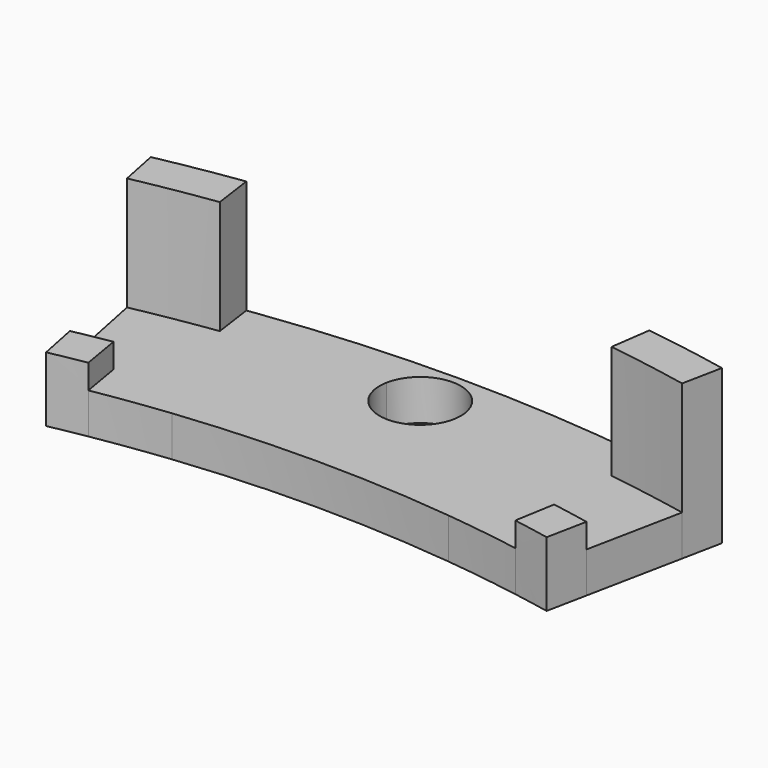
from build123d import *

# Parameters (mm, degrees)
F1_DEPTH = 1.25
F3_DEPTH = 4.75
F5_DEPTH = 2


with BuildPart() as f1:
    # F0 (on Top) → F1 (new body)
    with BuildSketch(Plane.XY):
        with BuildLine():
            ThreePointArc((5.9976509575, 42.832122093), (6.6456632834, 42.7363739632), (7.2921511628, 42.6308225515))
            Line((7.2921511628, 42.6308225515), (7.5029069767, 43.8629272495))
            ThreePointArc((7.5029069767, 43.8629272495), (6.7010150496, 43.9925720697), (5.8968902794, 44.1075581395))
            ThreePointArc((5.8968902794, 44.1075581395), (5.9741669577, 43.5561736795), (6, 43))
            ThreePointArc((6, 43), (5.9994127106, 42.9160528296), (5.9976509575, 42.832122093))
        make_face()
        with BuildLine():
            Line((-7.5029069767, 43.8629272495), (-7.2921511628, 42.6308225515))
            ThreePointArc((-7.2921511628, 42.6308225515), (-6.6456632834, 42.7363739632), (-5.9976509575, 42.832122093))
            ThreePointArc((-5.9976509575, 42.832122093), (-5.9813637313, 43.4725335051), (-5.8968902794, 44.1075581395))
            ThreePointArc((-5.8968902794, 44.1075581395), (-6.7010150496, 43.9925720697), (-7.5029069767, 43.8629272495))
        make_face()
        with BuildLine():
            ThreePointArc((1.2281761729, 43.2325581395), (3.6184570865, 43.0983673509), (5.9976509575, 42.832122093))
            ThreePointArc((5.9976509575, 42.832122093), (5.9994127106, 42.9160528296), (6, 43))
            ThreePointArc((6, 43), (5.9741669577, 43.5561736795), (5.8968902794, 44.1075581395))
            ThreePointArc((5.8968902794, 44.1075581395), (0, 44.5), (-5.8968902794, 44.1075581395))
            ThreePointArc((-5.8968902794, 44.1075581395), (-5.9813637313, 43.4725335051), (-5.9976509575, 42.832122093))
            ThreePointArc((-5.9976509575, 42.832122093), (-3.6184570865, 43.0983673509), (-1.2281761729, 43.2325581395))
            ThreePointArc((-1.2281761729, 43.2325581395), (0, 44.25), (1.2281761729, 43.2325581395))
        make_face()
        with BuildLine():
            ThreePointArc((5.1487358592, 39.9193313953), (5.9687994799, 39.804973719), (6.7863372093, 39.6737712763))
            Line((6.7863372093, 39.6737712763), (7.2921511628, 42.6308225515))
            ThreePointArc((7.2921511628, 42.6308225515), (6.6456632834, 42.7363739632), (5.9976509575, 42.832122093))
            ThreePointArc((5.9976509575, 42.832122093), (5.7603447969, 41.3211826125), (5.1487358592, 39.9193313953))
        make_face()
        with BuildLine():
            ThreePointArc((-5.1487358592, 39.9193313953), (0, 40.25), (5.1487358592, 39.9193313953))
            ThreePointArc((5.1487358592, 39.9193313953), (5.7603447969, 41.3211826125), (5.9976509575, 42.832122093))
            ThreePointArc((5.9976509575, 42.832122093), (3.6184570865, 43.0983673509), (1.2281761729, 43.2325581395))
            ThreePointArc((1.2281761729, 43.2325581395), (1.244532084, 43.1167899479), (1.25, 43))
            ThreePointArc((1.25, 43), (-0.1167899479, 41.755467916), (-1.2281761729, 43.2325581395))
            ThreePointArc((-1.2281761729, 43.2325581395), (-3.6184570865, 43.0983673509), (-5.9976509575, 42.832122093))
            ThreePointArc((-5.9976509575, 42.832122093), (-5.7603447969, 41.3211826125), (-5.1487358592, 39.9193313953))
        make_face()
        with BuildLine():
            Line((-7.2921511628, 42.6308225515), (-6.7863372093, 39.6737712763))
            ThreePointArc((-6.7863372093, 39.6737712763), (-5.9687994799, 39.804973719), (-5.1487358592, 39.9193313953))
            ThreePointArc((-5.1487358592, 39.9193313953), (-5.7603447969, 41.3211826125), (-5.9976509575, 42.832122093))
            ThreePointArc((-5.9976509575, 42.832122093), (-6.6456632834, 42.7363739632), (-7.2921511628, 42.6308225515))
        make_face()
        with BuildLine():
            Line((-6.7863372093, 39.6737712763), (-6.5755813953, 38.4416665782))
            ThreePointArc((-6.5755813953, 38.4416665782), (-5.4165900946, 38.6220215906), (-4.2526993305, 38.7674418605))
            ThreePointArc((-4.2526993305, 38.7674418605), (-4.7358693269, 39.3160426552), (-5.1487358592, 39.9193313953))
            ThreePointArc((-5.1487358592, 39.9193313953), (-5.9687994799, 39.804973719), (-6.7863372093, 39.6737712763))
        make_face()
        with BuildLine():
            ThreePointArc((-4.2526993305, 38.7674418605), (0, 39), (4.2526993305, 38.7674418605))
            ThreePointArc((4.2526993305, 38.7674418605), (4.7358693269, 39.3160426552), (5.1487358592, 39.9193313953))
            ThreePointArc((5.1487358592, 39.9193313953), (0, 40.25), (-5.1487358592, 39.9193313953))
            ThreePointArc((-5.1487358592, 39.9193313953), (-4.7358693269, 39.3160426552), (-4.2526993305, 38.7674418605))
        make_face()
        with BuildLine():
            ThreePointArc((4.2526993305, 38.7674418605), (5.4165900946, 38.6220215906), (6.5755813953, 38.4416665782))
            Line((6.5755813953, 38.4416665782), (6.7863372093, 39.6737712763))
            ThreePointArc((6.7863372093, 39.6737712763), (5.9687994799, 39.804973719), (5.1487358592, 39.9193313953))
            ThreePointArc((5.1487358592, 39.9193313953), (4.7358693269, 39.3160426552), (4.2526993305, 38.7674418605))
        make_face()
        with BuildLine():
            ThreePointArc((6.7863372093, 39.6737712763), (7.3721720875, 39.5690987857), (7.9563953488, 39.4557761684))
            Line((7.9563953488, 39.4557761684), (8.5494186047, 42.3965793611))
            ThreePointArc((8.5494186046, 42.3965793611), (7.9216507524, 42.5183483846), (7.2921511628, 42.6308225515))
            Line((7.2921511628, 42.6308225515), (6.7863372093, 39.6737712763))
        make_face()
        with BuildLine():
            Line((-8.5494186047, 42.3965793611), (-7.9563953488, 39.4557761684))
            ThreePointArc((-7.9563953488, 39.4557761684), (-7.3721720874, 39.5690987857), (-6.7863372093, 39.6737712763))
            Line((-6.7863372093, 39.6737712763), (-7.2921511628, 42.6308225515))
            ThreePointArc((-7.2921511628, 42.6308225515), (-7.9216507524, 42.5183483846), (-8.5494186046, 42.3965793611))
        make_face()
    extrude(amount=F1_DEPTH)

    # F2 (on Top) → F3 (join)
    with BuildSketch(Plane.XY):
        with BuildLine():
            ThreePointArc((6.0348837209, 42.8268920011), (7.2953245865, 42.6302796047), (8.5494186046, 42.3965793611))
            Line((8.5494186047, 42.3965793611), (8.7965116279, 43.6219140247))
            ThreePointArc((8.7965116279, 43.6219140247), (7.5061721179, 43.8623686106), (6.2093023256, 44.0646634462))
            Line((6.2093023256, 44.0646634462), (6.0348837209, 42.8268920011))
        make_face()
        with BuildLine():
            Line((-8.7965116279, 43.6219140247), (-8.5494186047, 42.3965793611))
            ThreePointArc((-8.5494186046, 42.3965793611), (-7.2953245865, 42.6302796047), (-6.0348837209, 42.8268920011))
            Line((-6.0348837209, 42.8268920011), (-6.2093023256, 44.0646634462))
            ThreePointArc((-6.2093023256, 44.0646634462), (-7.5061721179, 43.8623686106), (-8.7965116279, 43.6219140247))
        make_face()
    extrude(amount=F3_DEPTH)

    # F4 (on Top) → F5 (join)
    with BuildSketch(Plane.XY):
        with BuildLine():
            Line((-7.9563953488, 39.4557761684), (-7.7093023256, 38.2304415048))
            ThreePointArc((-7.7093023256, 38.2304415048), (-7.1432226437, 38.3402447862), (-6.5755813953, 38.4416665782))
            Line((-6.5755813953, 38.4416665782), (-6.7863372093, 39.6737712763))
            ThreePointArc((-6.7863372093, 39.6737712763), (-7.3721720874, 39.5690987857), (-7.9563953488, 39.4557761684))
        make_face()
        with BuildLine():
            ThreePointArc((6.5755813953, 38.4416665782), (7.1432226437, 38.3402447862), (7.7093023256, 38.2304415048))
            Line((7.7093023256, 38.2304415048), (7.9563953488, 39.4557761684))
            ThreePointArc((7.9563953488, 39.4557761684), (7.3721720875, 39.5690987857), (6.7863372093, 39.6737712763))
            Line((6.7863372093, 39.6737712763), (6.5755813953, 38.4416665782))
        make_face()
    extrude(amount=F5_DEPTH)


solid = f1.part
